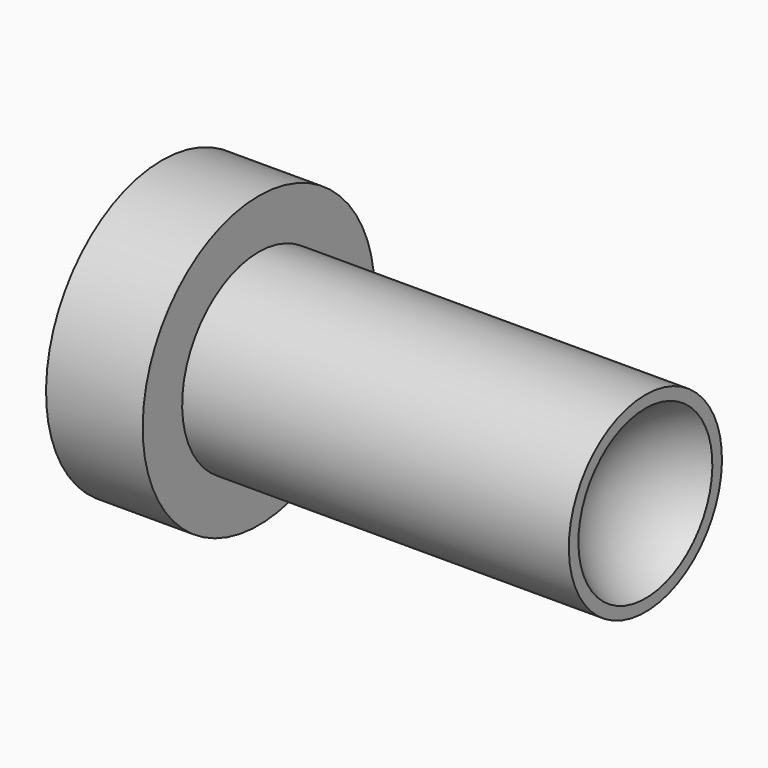
from build123d import *


with BuildPart() as f1:
    # F0 (on Front) → F1 (revolve)
    with BuildSketch(Plane.XZ):
        Polygon((-69.85, 19.05), (-69.85, 0), (-6.35, 0), (-6.35, 12.573), (-57.15, 12.573), (-57.15, 19.05), align=None)
    revolve(axis=Axis((-38.1, 0, 0), (1, 0, 0)))

    # F2 (on Front) → F3 (revolve, cut)
    with BuildSketch(Plane.XZ):
        with BuildLine():
            Line((-12.7, 0), (12.7, 0))
            ThreePointArc((12.7, 0), (0, 12.7), (-12.7, 0))
        make_face()
    revolve(axis=Axis((0, 0, 0), (1, 0, 0)), mode=Mode.SUBTRACT)


solid = f1.part
